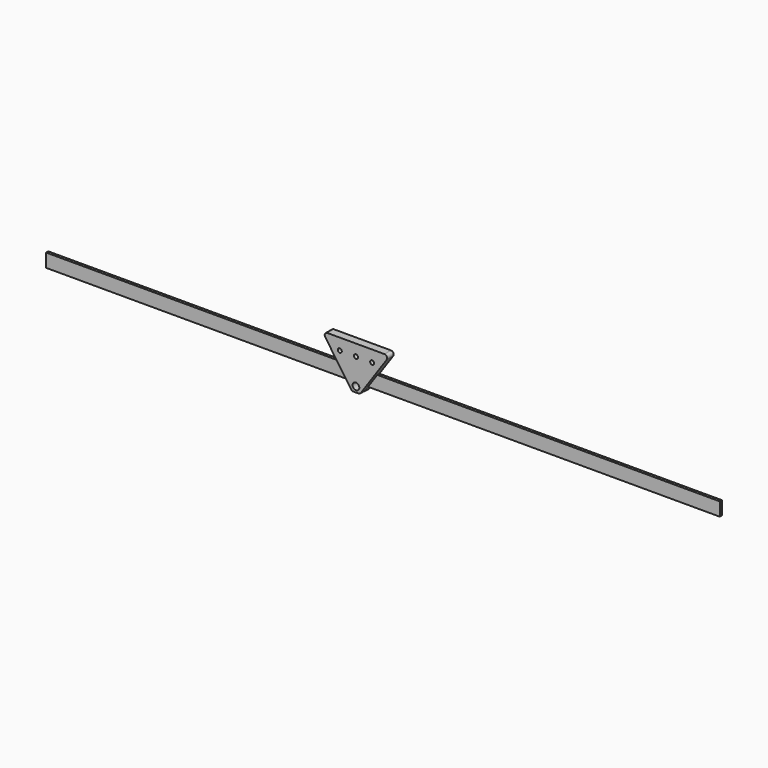
from build123d import *

# Parameters (mm, degrees)
F2_R     = 2.5
F2_R_2   = 1.5
F3_DEPTH = 6
F4_W     = 500
F4_H     = 10
F5_DEPTH = 2


with BuildPart() as f1:
    # F0 (on Right) → F1 (revolve)
    with BuildSketch(Plane.YZ):
        with BuildLine():
            Line((-1.363731, 3.5), (-1.433072, 3.5))
            Line((-1.433072, 3.5), (-1.47, 3.5))
            ThreePointArc((-1.47, 3.5), (-1.491213, 3.491213), (-1.5, 3.47))
            Line((-1.5, 3.47), (-1.5, 3.05))
            ThreePointArc((-1.5, 3.05), (-1.485355, 3.014645), (-1.45, 3))
            Line((-1.45, 3), (0, 3))
            Line((0, 3), (1.45, 3))
            ThreePointArc((1.45, 3), (1.485355, 3.014645), (1.5, 3.05))
            Line((1.5, 3.05), (1.5, 3.47))
            ThreePointArc((1.5, 3.47), (1.491213, 3.491213), (1.47, 3.5))
            Line((1.47, 3.5), (1.433072, 3.5))
            Line((1.433072, 3.5), (1.363731, 3.5))
            ThreePointArc((1.363731, 3.5), (1.342517, 3.508787), (1.333731, 3.53))
            Line((1.333731, 3.53), (1.333731, 3.599341))
            Line((1.333731, 3.599341), (1.333731, 4))
            Line((1.333731, 4), (1.333731, 4.400659))
            Line((1.333731, 4.400659), (1.333731, 4.47))
            ThreePointArc((1.333731, 4.47), (1.342517, 4.491213), (1.363731, 4.5))
            Line((1.363731, 4.5), (1.433072, 4.5))
            Line((1.433072, 4.5), (1.47, 4.5))
            ThreePointArc((1.47, 4.5), (1.491213, 4.508787), (1.5, 4.53))
            Line((1.5, 4.53), (1.5, 4.95))
            ThreePointArc((1.5, 4.95), (1.485355, 4.985355), (1.45, 5))
            Line((1.45, 5), (0, 5))
            Line((0, 5), (-1.45, 5))
            ThreePointArc((-1.45, 5), (-1.485355, 4.985355), (-1.5, 4.95))
            Line((-1.5, 4.95), (-1.5, 4.53))
            ThreePointArc((-1.5, 4.53), (-1.491213, 4.508787), (-1.47, 4.5))
            Line((-1.47, 4.5), (-1.433072, 4.5))
            Line((-1.433072, 4.5), (-1.363731, 4.5))
            ThreePointArc((-1.363731, 4.5), (-1.342517, 4.491213), (-1.333731, 4.47))
            Line((-1.333731, 4.47), (-1.333731, 4.400659))
            Line((-1.333731, 4.400659), (-1.333731, 4))
            Line((-1.333731, 4), (-1.333731, 3.599341))
            Line((-1.333731, 3.599341), (-1.333731, 3.53))
            ThreePointArc((-1.333731, 3.53), (-1.342517, 3.508787), (-1.363731, 3.5))
        make_face()
    revolve(axis=Axis((0, 0.416491, 0), (0, 1, 0)))


with BuildPart() as f3:
    # F2 (on Front) → F3 (new body)
    with BuildSketch(Plane.XZ):
        with BuildLine():
            Line((21.197939, 28), (0, 28))
            Line((0, 28), (-21.197939, 28))
            ThreePointArc((-21.197939, 28), (-22.967984, 26.931097), (-22.846023, 24.866942))
            Line((-22.846023, 24.866942), (-3.596023, -3.133058))
            ThreePointArc((-3.596023, -3.133058), (-2.879036, -3.770045), (-1.947939, -4))
            Line((-1.947939, -4), (0, -4))
            Line((0, -4), (1.947939, -4))
            ThreePointArc((1.947939, -4), (2.879036, -3.770045), (3.596023, -3.133058))
            Line((3.596023, -3.133058), (22.846023, 24.866942))
            ThreePointArc((22.846023, 24.866942), (22.967984, 26.931097), (21.197939, 28))
        make_face()
        Circle(F2_R, mode=Mode.SUBTRACT)
        with Locations((-12, 19.5)):
            Circle(F2_R_2, mode=Mode.SUBTRACT)
        with Locations((0, 19.5)):
            Circle(F2_R_2, mode=Mode.SUBTRACT)
        with Locations((12, 19.5)):
            Circle(F2_R_2, mode=Mode.SUBTRACT)
    extrude(amount=F3_DEPTH)


with BuildPart() as f5:
    # F4 (on Front) → F5 (new body)
    with BuildSketch(Plane.XZ):
        with Locations((16.816204, 5)):
            Rectangle(F4_W, F4_H)
    extrude(amount=F5_DEPTH)


solid = Compound([f1.part, f3.part, f5.part])
